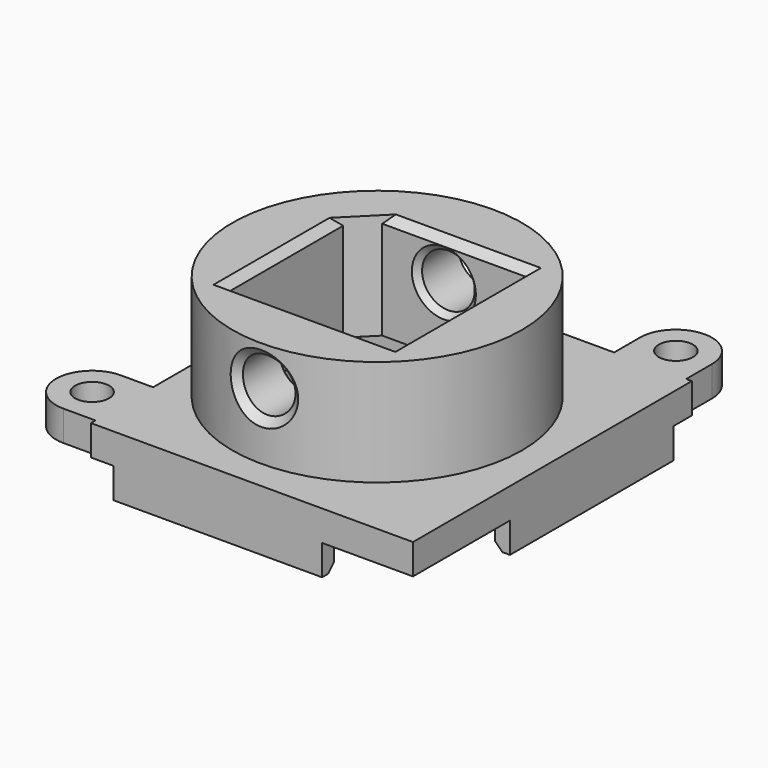
from build123d import *

# Parameters (mm, degrees)
SKETCH004_R          = 0.9
PAD_DEPTH            = 1.6
SKETCH007_W          = 10
SKETCH007_H          = 10.3
POCKET001_DEPTH      = 1.601
POCKET001_DEPTH_BACK = 1.601
POCKET_DEPTH         = 1.6
CHAMFER001_SIZE      = 0.4
SKETCH008_R          = 7.65
PAD001_DEPTH         = 5.6
CHAMFER_SIZE         = 0.4
SKETCH029_R          = 1.39
POCKET016_DEPTH      = 12.801
POCKET016_DEPTH_BACK = 9.201
CHAMFER002_SIZE      = 0.4
CHAMFER003_SIZE      = 0.3
CHAMFER004_SIZE      = 0.3
CHAMFER005_SIZE      = 0.4


with BuildPart() as part:
    # Sketch004 → Pad (new body, symmetric)
    with BuildSketch(Plane.XY.offset(-11.4)):
        with BuildLine():
            ThreePointArc((8.95, 10.9), (7.05, 12.8), (5.15, 10.9))
            Line((5.15, 9.2), (5.15, 10.9))
            Line((-7.75, 9.2), (5.15, 9.2))
            Line((-7.75, -5.1), (-7.75, 9.2))
            Line((-9.45, -5.1), (-7.75, -5.1))
            ThreePointArc((-9.45, -5.1), (-11.35, -7), (-9.45, -8.9))
            Line((-9.45, -8.9), (-7.75, -8.9))
            Line((-7.75, -8.9), (-7.75, -9.2))
            Line((9.25, -9.2), (-7.75, -9.2))
            Line((9.25, 9.2), (9.25, -9.2))
            Line((8.95, 9.2), (9.25, 9.2))
            Line((8.95, 10.9), (8.95, 9.2))
        make_face()
        with Locations((-9.45, -7)):
            Circle(SKETCH004_R, mode=Mode.SUBTRACT)
        with Locations((7.05, 10.9)):
            Circle(SKETCH004_R, mode=Mode.SUBTRACT)
    extrude(amount=PAD_DEPTH, both=True)

    # Sketch007 → Pocket001 (cut, two sides)
    with BuildSketch(Plane.XY.offset(-11.4)) as pocket001_sk:
        Rectangle(SKETCH007_W, SKETCH007_H)
    extrude(amount=-POCKET001_DEPTH, mode=Mode.SUBTRACT)
    extrude(pocket001_sk.sketch, amount=POCKET001_DEPTH_BACK, mode=Mode.SUBTRACT)

    # Sketch006 → Pocket (cut)
    with BuildSketch(Plane.XY.offset(-11.4)):
        with BuildLine():
            Line((8.45, 8), (8.45, -2.8))
            Line((11.05, -2.8), (8.45, -2.8))
            Line((11.05, -11), (11.05, -2.8))
            Line((4.45, -11), (11.05, -11))
            Line((4.45, -8.4), (4.45, -11))
            Line((-6.55, -8.4), (4.45, -8.4))
            Line((-6.55, -8.4), (-6.55, -8.9))
            Line((-6.55, -8.9), (-6.55, -9.2))
            Line((-6.55, -9.2), (-7.75, -9.2))
            Line((-7.75, -9.2), (-7.75, -8.9))
            Line((-9.65, -8.9), (-7.75, -8.9))
            ThreePointArc((-9.65, -5.1), (-11.55, -7), (-9.65, -8.9))
            Line((-9.65, -5.1), (-7.75, -5.1))
            Line((-7.75, -4.9), (-7.75, -5.1))
            Line((-7.75, -4.9), (-6.95, -4.9))
            Line((-6.95, 8.4), (-6.95, -4.9))
            Line((4.95, 8.4), (-6.95, 8.4))
            Line((4.95, 9.2), (4.95, 8.4))
            Line((4.95, 9.2), (5.15, 9.2))
            Line((5.15, 9.2), (5.15, 11.1))
            ThreePointArc((8.95, 11.1), (7.05, 13), (5.15, 11.1))
            Line((8.95, 11.1), (8.95, 9.2))
            Line((8.95, 9.2), (9.25, 9.2))
            Line((9.25, 8), (9.25, 9.2))
            Line((8.95, 8), (9.25, 8))
            Line((8.95, 8), (8.45, 8))
        make_face()
    extrude(amount=-POCKET_DEPTH, mode=Mode.SUBTRACT)

    # Chamfer001
    chamfer001_edges = [part.edges().sort_by_distance(p)[0] for p in [
        (-6.95, 1.75, -13),
        (-1, 8.4, -13),
        (8.45, 2.6, -13),
        (-1.05, -8.4, -13),
    ]]
    chamfer(chamfer001_edges, length=CHAMFER001_SIZE)

    # Sketch008 (on Face5 of Pocket001) → Pad001 (join)
    with BuildSketch(Plane.XY.offset(-9.8)):
        Circle(SKETCH008_R)
        Polygon((-4.4, 3.254487), (-3.254487, 4.4), (4.4, 4.4), (4.4, -4.4), (-4.4, -4.4), align=None, mode=Mode.SUBTRACT)
    extrude(amount=PAD001_DEPTH)

    # Chamfer
    chamfer_edges = [part.edges().sort_by_distance(p)[0] for p in [
        (4.4, 0, -4.2),
        (0.572756, 4.4, -4.2),
        (0, -4.4, -4.2),
        (-4.4, -0.572756, -4.2),
    ]]
    chamfer(chamfer_edges, length=CHAMFER_SIZE)

    # Sketch029 → Pocket016 (cut, two sides)
    with BuildSketch(Plane.XZ) as pocket016_sk:
        with Locations((0, -6.3)):
            Circle(SKETCH029_R)
    extrude(amount=-POCKET016_DEPTH, mode=Mode.SUBTRACT)
    extrude(pocket016_sk.sketch, amount=POCKET016_DEPTH_BACK, mode=Mode.SUBTRACT)

    # Chamfer002
    chamfer002_edges = [part.edges().sort_by_distance(p)[0] for p in [
        (-1.39, -7.522659, -6.3),
    ]]
    chamfer(chamfer002_edges, length=CHAMFER002_SIZE)

    # Chamfer003
    chamfer003_edges = [part.edges().sort_by_distance(p)[0] for p in [
        (-1.39, -4.4, -6.3),
    ]]
    chamfer(chamfer003_edges, length=CHAMFER003_SIZE)

    # Chamfer004
    chamfer004_edges = [part.edges().sort_by_distance(p)[0] for p in [
        (-1.39, 4.4, -6.3),
    ]]
    chamfer(chamfer004_edges, length=CHAMFER004_SIZE)

    # Chamfer005
    chamfer005_edges = [part.edges().sort_by_distance(p)[0] for p in [
        (-1.39, 7.522659, -6.3),
    ]]
    chamfer(chamfer005_edges, length=CHAMFER005_SIZE)


solid = part.part
